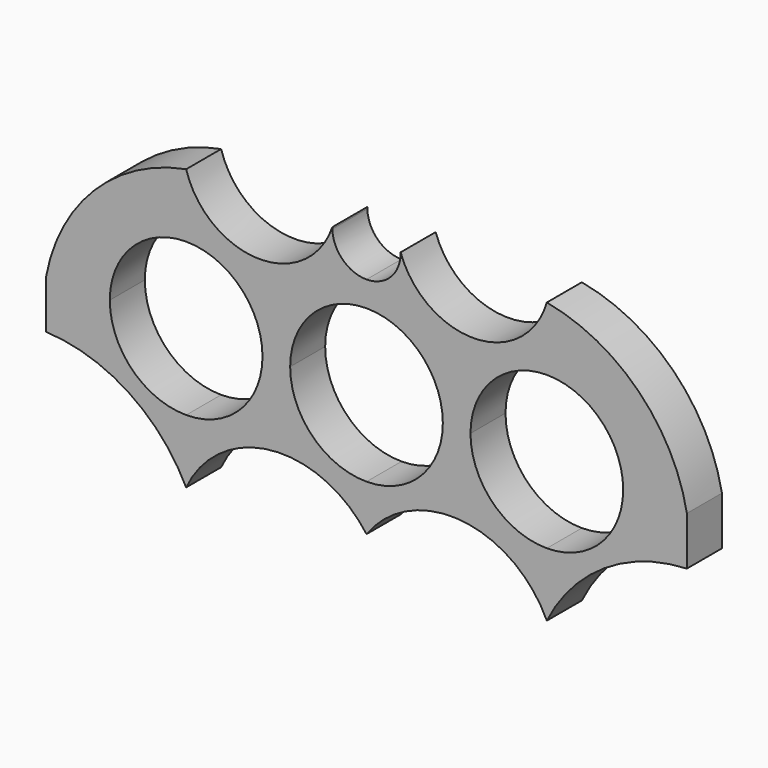
from build123d import *

# Parameters (mm, degrees)
F1_DEPTH = 6.35


with BuildPart() as f1:
    # F0 (on Front) → F1 (new body)
    with BuildSketch(Plane.XZ):
        with BuildLine():
            ThreePointArc((-37.2364, 0), (-33.992783, 7.830783), (-26.162, 11.0744))
            Line((-26.162, 11.0744), (-26.162, 20.32))
            ThreePointArc((-26.162, 20.32), (-39.471894, 13.309894), (-46.482, 0))
            Line((-46.482, 0), (-37.2364, 0))
        make_face()
        with BuildLine():
            ThreePointArc((-46.482, -7.0612), (-34.50328, -10.90329), (-26.162, -20.32))
            Line((-26.162, -20.32), (-26.162, -11.0744))
            ThreePointArc((-26.162, -11.0744), (-33.992783, -7.830783), (-37.2364, 0))
            Line((-37.2364, 0), (-46.482, 0))
            Line((-46.482, 0), (-46.482, -7.0612))
        make_face()
        with BuildLine():
            Line((0, -17.78), (0, -11.0744))
            ThreePointArc((0, -11.0744), (-7.830783, -7.830783), (-11.0744, 0))
            Line((-11.0744, 0), (-15.0876, 0))
            ThreePointArc((-15.0876, 0), (-18.331217, -7.830783), (-26.162, -11.0744))
            Line((-26.162, -11.0744), (-26.162, -20.32))
            ThreePointArc((-26.162, -20.32), (-13.808095, -11.56092), (0, -17.78))
        make_face()
        with BuildLine():
            Line((15.0876, 0), (11.0744, 0))
            ThreePointArc((11.0744, 0), (7.830783, -7.830783), (0, -11.0744))
            Line((0, -11.0744), (0, -17.78))
            ThreePointArc((0, -17.78), (13.808095, -11.56092), (26.162, -20.32))
            Line((26.162, -20.32), (26.162, -11.0744))
            ThreePointArc((26.162, -11.0744), (18.331217, -7.830783), (15.0876, 0))
        make_face()
        with BuildLine():
            ThreePointArc((37.2364, 0), (33.992783, -7.830783), (26.162, -11.0744))
            Line((26.162, -11.0744), (26.162, -20.32))
            ThreePointArc((26.162, -20.32), (34.50328, -10.90329), (46.482, -7.0612))
            Line((46.482, -7.0612), (46.482, 0))
            Line((46.482, 0), (37.2364, 0))
        make_face()
        with BuildLine():
            Line((26.162, 20.32), (26.162, 11.0744))
            ThreePointArc((26.162, 11.0744), (33.992783, 7.830783), (37.2364, 0))
            Line((37.2364, 0), (46.482, 0))
            ThreePointArc((46.482, 0), (39.471894, 13.309894), (26.162, 20.32))
        make_face()
        with BuildLine():
            ThreePointArc((0, 11.0744), (7.830783, 7.830783), (11.0744, 0))
            Line((11.0744, 0), (15.0876, 0))
            ThreePointArc((15.0876, 0), (18.331217, 7.830783), (26.162, 11.0744))
            Line((26.162, 11.0744), (26.162, 20.32))
            ThreePointArc((26.162, 20.32), (15.737544, 12.305846), (4.953, 19.828449))
            ThreePointArc((4.953, 19.828449), (4.954587, 19.703036), (4.953, 19.577624))
            Line((4.953, 19.577624), (4.953, 14.748449))
            Line((4.953, 14.748449), (0, 14.748449))
            Line((0, 14.748449), (0, 11.0744))
        make_face()
        with BuildLine():
            ThreePointArc((-11.0744, 0), (-7.830783, 7.830783), (0, 11.0744))
            Line((0, 11.0744), (0, 14.748449))
            Line((0, 14.748449), (-4.953, 14.748449))
            Line((-4.953, 14.748449), (-4.953, 19.577624))
            ThreePointArc((-4.953, 19.577624), (-4.954587, 19.703036), (-4.953, 19.828449))
            ThreePointArc((-4.953, 19.828449), (-15.737544, 12.305846), (-26.162, 20.32))
            Line((-26.162, 20.32), (-26.162, 11.0744))
            ThreePointArc((-26.162, 11.0744), (-18.331217, 7.830783), (-15.0876, 0))
            Line((-15.0876, 0), (-11.0744, 0))
        make_face()
        with BuildLine():
            Line((-4.953, 14.748449), (0, 14.748449))
            ThreePointArc((0, 14.748449), (-3.458798, 16.155551), (-4.953, 19.577624))
            Line((-4.953, 19.577624), (-4.953, 14.748449))
        make_face()
        with BuildLine():
            ThreePointArc((4.953, 19.577624), (3.458798, 16.155551), (0, 14.748449))
            Line((0, 14.748449), (4.953, 14.748449))
            Line((4.953, 14.748449), (4.953, 19.577624))
        make_face()
    extrude(amount=F1_DEPTH)


solid = f1.part
